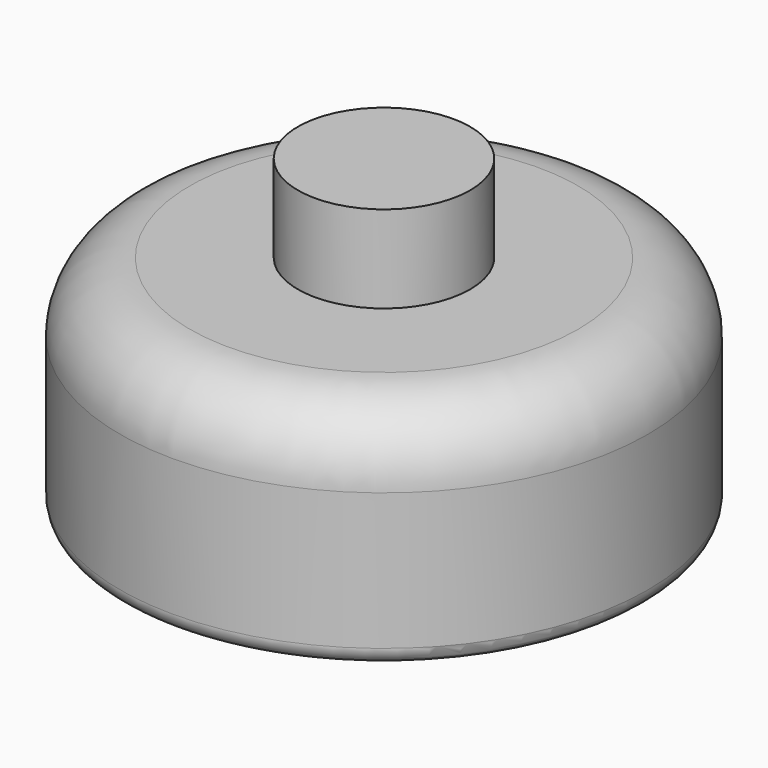
from build123d import *

# Parameters (mm, degrees)
F0_R     = 76.88013
F1_DEPTH = 65.278
F2_R     = 25.084702
F3_DEPTH = 25.4
F4_R     = 5.08
F5_R     = 20.32


with BuildPart() as f1:
    # F0 (on Top) → F1 (new body)
    with BuildSketch(Plane.XY):
        Circle(F0_R)
    extrude(amount=F1_DEPTH)

    # F2 (on face) → F3 (join)
    with BuildSketch(Plane.XY.offset(65.278)):
        Circle(F2_R)
    extrude(amount=F3_DEPTH)

    # F4
    f4_edges = [f1.edges().sort_by_distance(p)[0] for p in [
        (-76.88013, 0, 0),
    ]]
    fillet(f4_edges, radius=F4_R)

    # F5
    f5_edges = [f1.edges().sort_by_distance(p)[0] for p in [
        (-76.88013, 0, 65.278),
    ]]
    fillet(f5_edges, radius=F5_R)


solid = f1.part
